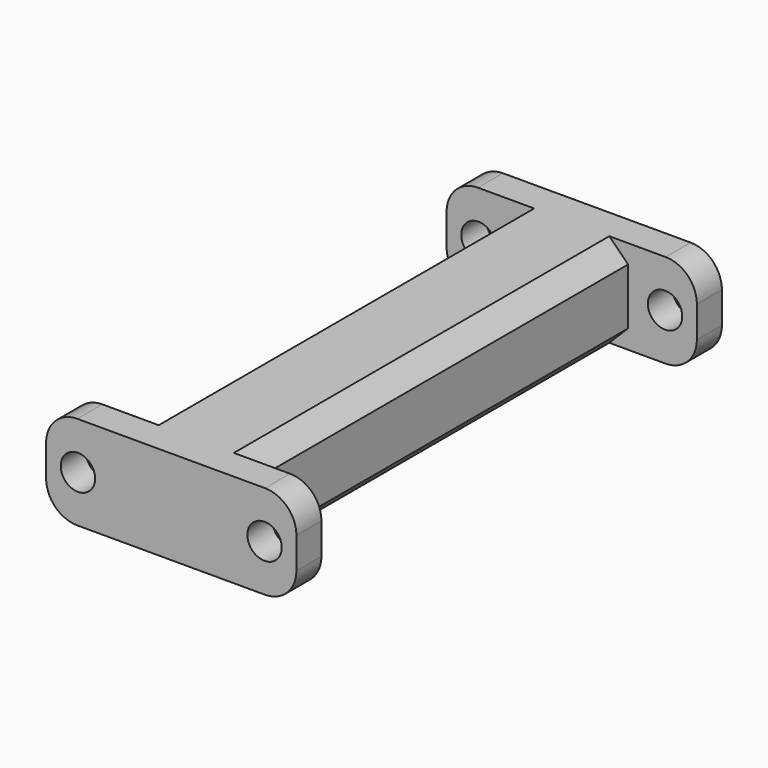
from build123d import *

# Parameters (mm, degrees)
F1_DEPTH = 15
F2_SIZE  = 3
F3_R     = 5
F4_R     = 2.75
F5_DEPTH = 150


with BuildPart() as f1:
    # F0 (on Top) → F1 (new body)
    with BuildSketch(Plane.XY):
        Polygon((0, 37.5), (9, 37.5), (20, 37.5), (20, 42.5), (-20, 42.5), (-20, 37.5), (-9, 37.5), align=None)
        Polygon((9, -37.5), (9, 37.5), (0, 37.5), (-9, 37.5), (-9, -37.5), (0, -37.5), align=None)
        Polygon((20, -37.5), (9, -37.5), (0, -37.5), (-9, -37.5), (-20, -37.5), (-20, -42.5), (20, -42.5), align=None)
    extrude(amount=F1_DEPTH)

    # F2
    f2_edges = [f1.edges().sort_by_distance(p)[0] for p in [
        (9, 0, 0),
        (-9, 0, 0),
        (-9, 0, 15),
        (9, 0, 15),
    ]]
    chamfer(f2_edges, length=F2_SIZE)

    # F3
    f3_edges = [f1.edges().sort_by_distance(p)[0] for p in [
        (20, -40, 15),
        (-20, -40, 0),
        (-20, -40, 15),
        (20, -40, 0),
        (-20, 40, 15),
        (-20, 40, 0),
        (20, 40, 0),
        (20, 40, 15),
    ]]
    fillet(f3_edges, radius=F3_R)

    # F4 (on face) → F5 (cut)
    with BuildSketch(Plane(origin=(0, 42.5, 0), x_dir=(-1, 0, 0), z_dir=(0, 1, 0))):
        with BuildLine():
            ThreePointArc((17.66, 7.5), (14.91, 10.25), (12.16, 7.5))
            ThreePointArc((12.16, 7.5), (14.91, 4.75), (17.66, 7.5))
        make_face()
        with Locations((-14.91, 7.5)):
            Circle(F4_R)
    extrude(amount=-F5_DEPTH, mode=Mode.SUBTRACT)


solid = f1.part
